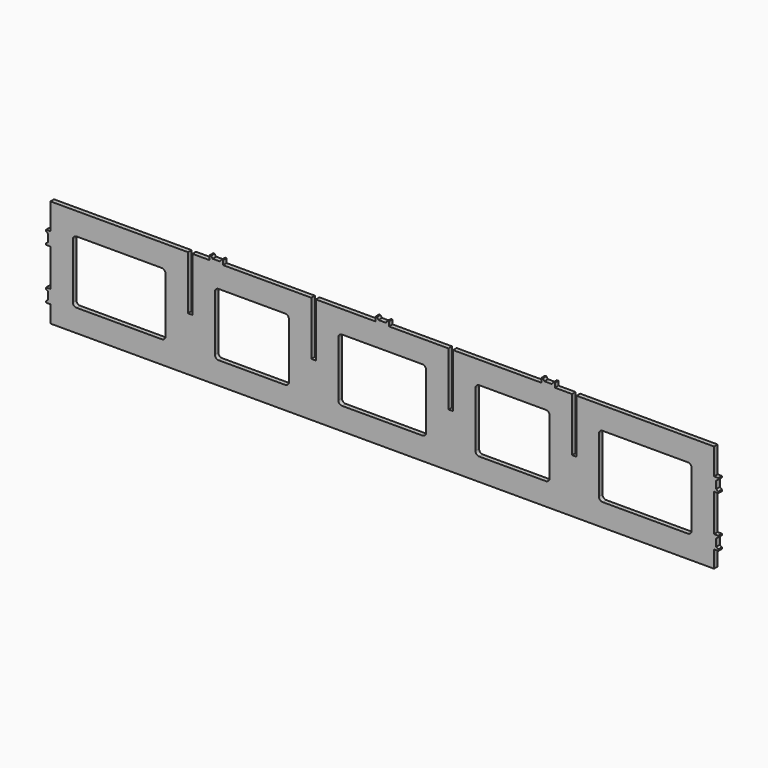
from build123d import *

# Parameters (mm, degrees)
F1_DEPTH = 6


with BuildPart() as f1:
    # F0 (on Front) → F1 (new body)
    with BuildSketch(Plane.XZ):
        Polygon((184, 0), (0, 0), (0, -35.21), (-5.8, -35.21), (-5.8, -37.21), (-3, -39.21), (-3, -49.21), (-5.8, -51.21), (-5.8, -53.21), (0, -53.21), (0, -103.23), (-5.8, -103.23), (-5.8, -105.23), (-3, -107.23), (-3, -117.23), (-5.8, -119.23), (-5.8, -121.23), (0, -121.23), (0, -144), (888, -144), (888, -121.23), (893.8, -121.23), (893.8, -119.23), (891, -117.23), (891, -107.23), (893.8, -105.23), (893.8, -103.23), (888, -103.23), (888, -53.21), (893.8, -53.21), (893.8, -51.21), (891, -49.21), (891, -39.21), (893.8, -37.21), (893.8, -35.21), (888, -35.21), (888, 0), (704, 0), (704, -72.01), (697.99, -72.01), (697.99, 0), (675, 0), (675, 5.8), (673, 5.8), (671, 3), (661, 3), (659, 5.8), (657, 5.8), (657, 0), (538.8, 0), (538.8, -72.01), (532.79, -72.01), (532.79, 0), (453, 0), (453, 5.8), (451, 5.8), (449, 3), (439, 3), (437, 5.8), (435, 5.8), (435, 0), (355.21, 0), (355.21, -72.01), (349.2, -72.01), (349.2, 0), (231, 0), (231, 5.8), (229, 5.8), (227, 3), (217, 3), (215, 5.8), (213, 5.8), (213, 0), (190.01, 0), (190.01, -72.01), (184, -72.01), align=None)
        with BuildLine():
            ThreePointArc((30, -35), (31.464466, -31.464466), (35, -30))
            Line((35, -30), (149, -30))
            ThreePointArc((149, -30), (152.535534, -31.464466), (154, -35))
            Line((154, -35), (154, -109))
            ThreePointArc((154, -109), (152.535534, -112.535534), (149, -114))
            Line((149, -114), (35, -114))
            ThreePointArc((35, -114), (31.464466, -112.535534), (30, -109))
            Line((30, -109), (30, -35))
        make_face(mode=Mode.SUBTRACT)
        with BuildLine():
            Line((220.01, -109), (220.01, -35))
            ThreePointArc((220.01, -35), (221.474466, -31.464466), (225.01, -30))
            Line((225.01, -30), (314.2, -30))
            ThreePointArc((314.2, -30), (317.735534, -31.464466), (319.2, -35))
            Line((319.2, -35), (319.2, -109))
            ThreePointArc((319.2, -109), (317.735534, -112.535534), (314.2, -114))
            Line((314.2, -114), (225.01, -114))
            ThreePointArc((225.01, -114), (221.474466, -112.535534), (220.01, -109))
        make_face(mode=Mode.SUBTRACT)
        with BuildLine():
            ThreePointArc((385.21, -35), (386.674466, -31.464466), (390.21, -30))
            Line((390.21, -30), (497.79, -30))
            ThreePointArc((497.79, -30), (501.325534, -31.464466), (502.79, -35))
            Line((502.79, -35), (502.79, -109))
            ThreePointArc((502.79, -109), (501.325534, -112.535534), (497.79, -114))
            Line((497.79, -114), (390.21, -114))
            ThreePointArc((390.21, -114), (386.674466, -112.535534), (385.21, -109))
            Line((385.21, -109), (385.21, -35))
        make_face(mode=Mode.SUBTRACT)
        with BuildLine():
            ThreePointArc((568.8, -35), (570.264466, -31.464466), (573.8, -30))
            Line((573.8, -30), (662.99, -30))
            ThreePointArc((662.99, -30), (666.525534, -31.464466), (667.99, -35))
            Line((667.99, -35), (667.99, -109))
            ThreePointArc((667.99, -109), (666.525534, -112.535534), (662.99, -114))
            Line((662.99, -114), (573.8, -114))
            ThreePointArc((573.8, -114), (570.264466, -112.535534), (568.8, -109))
            Line((568.8, -109), (568.8, -35))
        make_face(mode=Mode.SUBTRACT)
        with BuildLine():
            ThreePointArc((734, -35), (735.464466, -31.464466), (739, -30))
            Line((739, -30), (853, -30))
            ThreePointArc((853, -30), (856.535534, -31.464466), (858, -35))
            Line((858, -35), (858, -109))
            ThreePointArc((858, -109), (856.535534, -112.535534), (853, -114))
            Line((853, -114), (739, -114))
            ThreePointArc((739, -114), (735.464466, -112.535534), (734, -109))
            Line((734, -109), (734, -35))
        make_face(mode=Mode.SUBTRACT)
    extrude(amount=F1_DEPTH)


solid = f1.part
